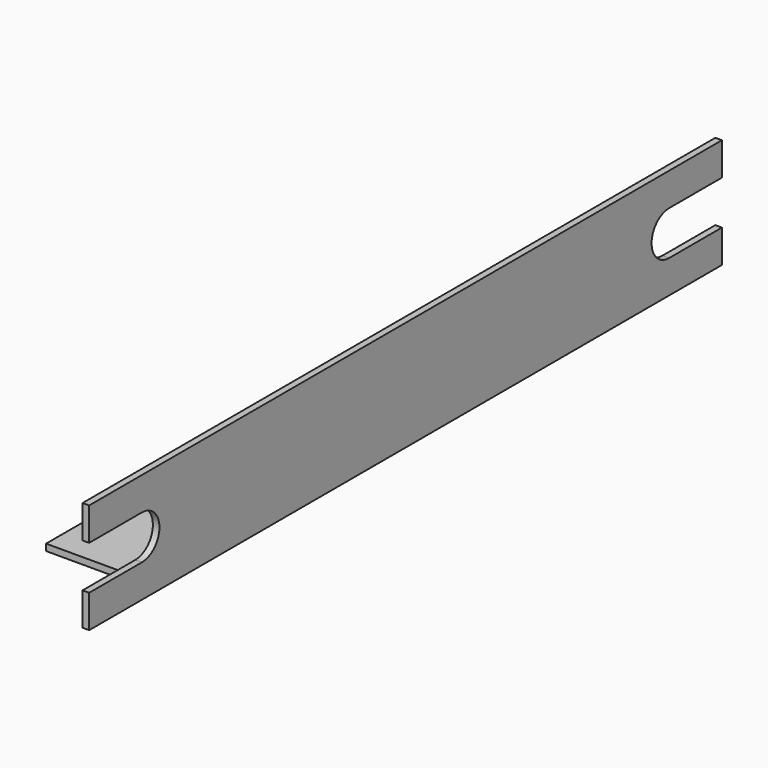
from build123d import *

# Parameters (mm, degrees)
PAD040_DEPTH    = 90
SKETCH062_W     = 23.5
SKETCH062_H     = 19
POCKET016_DEPTH = 1.5
POCKET017_DEPTH = 5


with BuildPart() as part:
    # Sketch061 → Pad040 (new body, symmetric)
    with BuildSketch(Plane.XZ):
        Polygon((-1.5, 25), (-1.5, 1.5), (-25, 1.5), (-25, 0), (0, 0), (0, 25), align=None)
    extrude(amount=PAD040_DEPTH, both=True)

    # Sketch062 → Pocket016 (cut)
    with BuildSketch(Plane.XY):
        with Locations((-13.25, 80.5)):
            Rectangle(SKETCH062_W, SKETCH062_H)
    pocket016 = extrude(amount=POCKET016_DEPTH, mode=Mode.SUBTRACT)

    # Sketch063 → Pocket017 (cut)
    with BuildSketch(Plane.YZ):
        with BuildLine():
            ThreePointArc((75, 17.5), (70, 12.5), (75, 7.5))
            Line((75, 7.5), (90, 7.5))
            Line((90, 7.5), (90, 17.5))
            Line((90, 17.5), (75, 17.5))
        make_face()
    pocket017 = extrude(amount=-POCKET017_DEPTH, mode=Mode.SUBTRACT)

    # Mirrored018: Pocket017, Pocket016 across Sketch063 V_Axis
    add(pocket017.mirror(Plane(origin=(0, 0, 0), x_dir=(1, 0, 0), z_dir=(0, 1, 0))), mode=Mode.SUBTRACT)
    add(pocket016.mirror(Plane(origin=(0, 0, 0), x_dir=(1, 0, 0), z_dir=(0, 1, 0))), mode=Mode.SUBTRACT)


with BuildPart() as part_1:
    # Body031 placement: moved
    add(part.part.moved(Location((-136, 0, 0))))


solid = part_1.part
